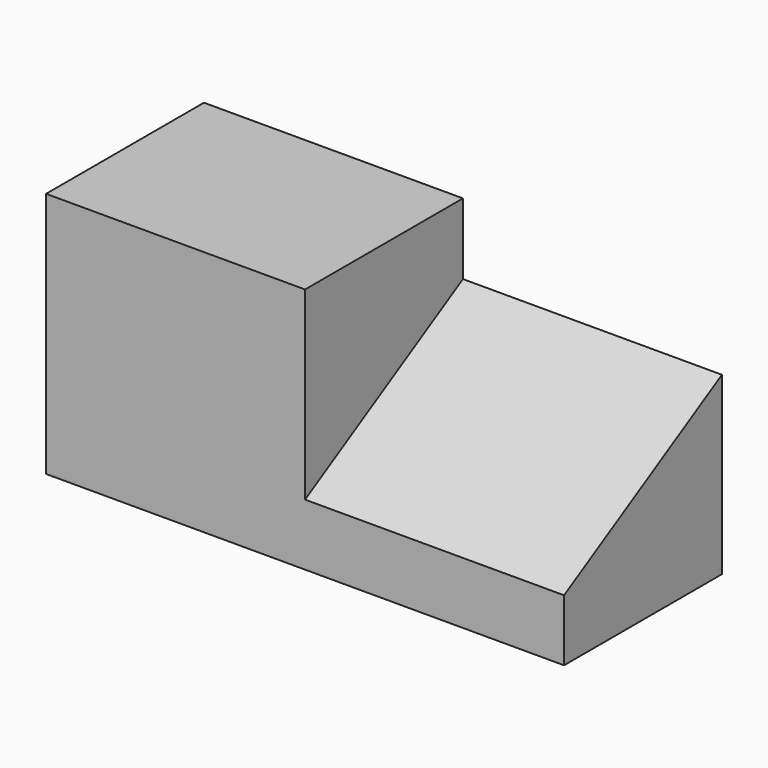
from build123d import *

# Parameters (mm, degrees)
F0_W     = 66.675
F0_H     = 63.5
F1_DEPTH = 50.8
F3_DEPTH = 66.675


with BuildPart() as f1:
    # F0 (on Front) → F1 (new body)
    with BuildSketch(Plane.XZ):
        Rectangle(F0_W, F0_H)
    extrude(amount=F1_DEPTH)

    # F2 (on face) → F3 (join)
    with BuildSketch(Plane.YZ.offset(33.3375)):
        Polygon((-50.8, -15.875), (-50.8, -31.75), (0, -31.75), (0, 13.454394), align=None)
    extrude(amount=F3_DEPTH)


solid = f1.part
